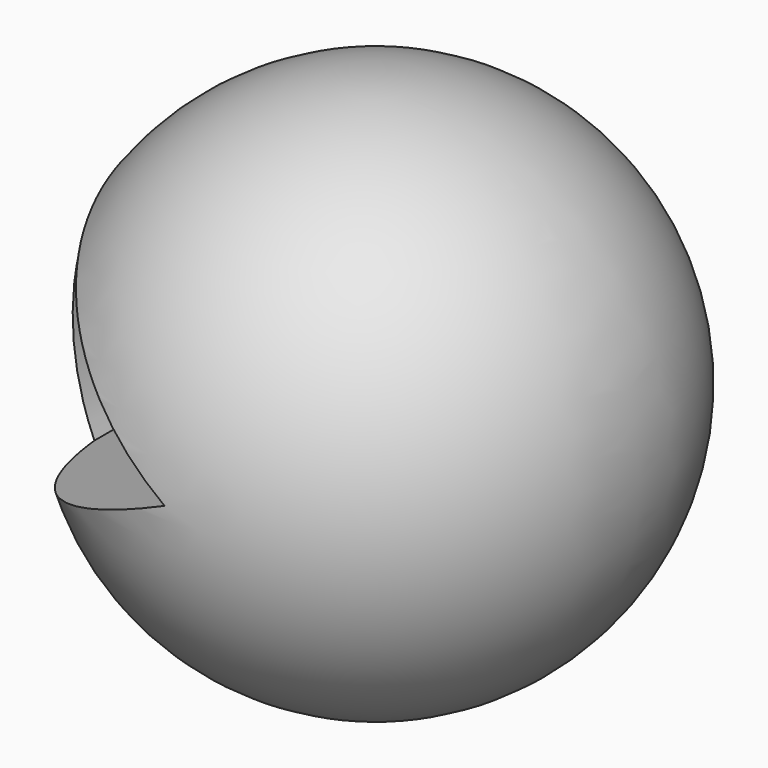
from build123d import *

# Parameters (mm, degrees)
F3_DEPTH = 233.68
F4_DEPTH = 241.3


with BuildPart() as f1:
    # F0 (on Front) → F1 (revolve)
    with BuildSketch(Plane.XZ):
        with BuildLine():
            Line((0, 131.807907), (0, -131.807907))
            ThreePointArc((0, -131.807907), (131.807907, 0), (0, 131.807907))
        make_face()
    revolve(axis=Axis((0, 0, 0), (0, 0, 1)))

    # F2 (on Front) → F3 (cut)
    with BuildSketch(Plane.XZ):
        with BuildLine():
            Line((-127.972643, 14.135387), (0, 0))
            Line((0, 0), (-103.759866, 76.227926))
            ThreePointArc((-103.759866, 76.227926), (-119.953573, 46.775493), (-127.972643, 14.135387))
        make_face()
        with BuildLine():
            Line((-117.895253, -51.744717), (0, 0))
            Line((0, 0), (-127.972643, 14.135387))
            ThreePointArc((-127.972643, 14.135387), (-127.270588, -19.468022), (-117.895253, -51.744717))
        make_face()
    extrude(amount=-F3_DEPTH, mode=Mode.SUBTRACT)

    # F2 (on Front) → F4 (cut)
    with BuildSketch(Plane.XZ):
        with BuildLine():
            Line((-127.972643, 14.135387), (0, 0))
            Line((0, 0), (-103.759866, 76.227926))
            ThreePointArc((-103.759866, 76.227926), (-119.953573, 46.775493), (-127.972643, 14.135387))
        make_face()
        with BuildLine():
            Line((-117.895253, -51.744717), (0, 0))
            Line((0, 0), (-127.972643, 14.135387))
            ThreePointArc((-127.972643, 14.135387), (-127.270588, -19.468022), (-117.895253, -51.744717))
        make_face()
    extrude(amount=F4_DEPTH, mode=Mode.SUBTRACT)


solid = f1.part
